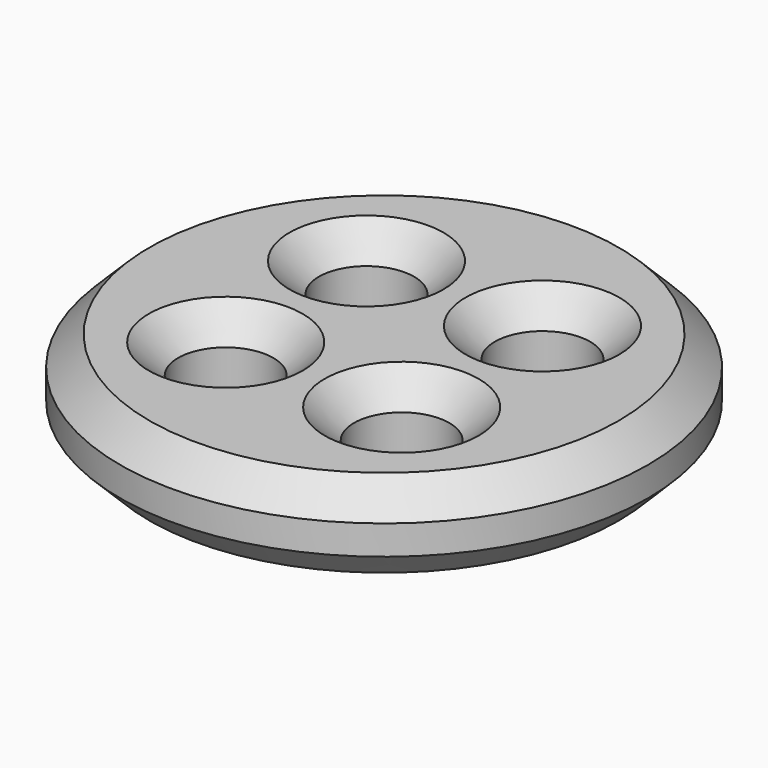
from build123d import *

# Parameters (mm, degrees)
F0_R     = 9
F0_R_2   = 1.625
F1_DEPTH = 3
F2_SIZE  = 1


with BuildPart() as f1:
    # F0 (on Top) → F1 (new body)
    with BuildSketch(Plane.XY):
        Circle(F0_R)
        with Locations((-3, -3)):
            Circle(F0_R_2, mode=Mode.SUBTRACT)
        with Locations((3, -3)):
            Circle(F0_R_2, mode=Mode.SUBTRACT)
        with Locations((-3, 3)):
            Circle(F0_R_2, mode=Mode.SUBTRACT)
        with Locations((3, 3)):
            Circle(F0_R_2, mode=Mode.SUBTRACT)
    extrude(amount=F1_DEPTH)

    # F2
    f2_edges = [f1.edges().sort_by_distance(p)[0] for p in [
        (-9, 0, 3),
        (-4.625, -3, 3),
        (1.375, -3, 3),
        (-4.625, 3, 3),
        (1.375, 3, 3),
        (-9, 0, 0),
    ]]
    chamfer(f2_edges, length=F2_SIZE)


solid = f1.part
